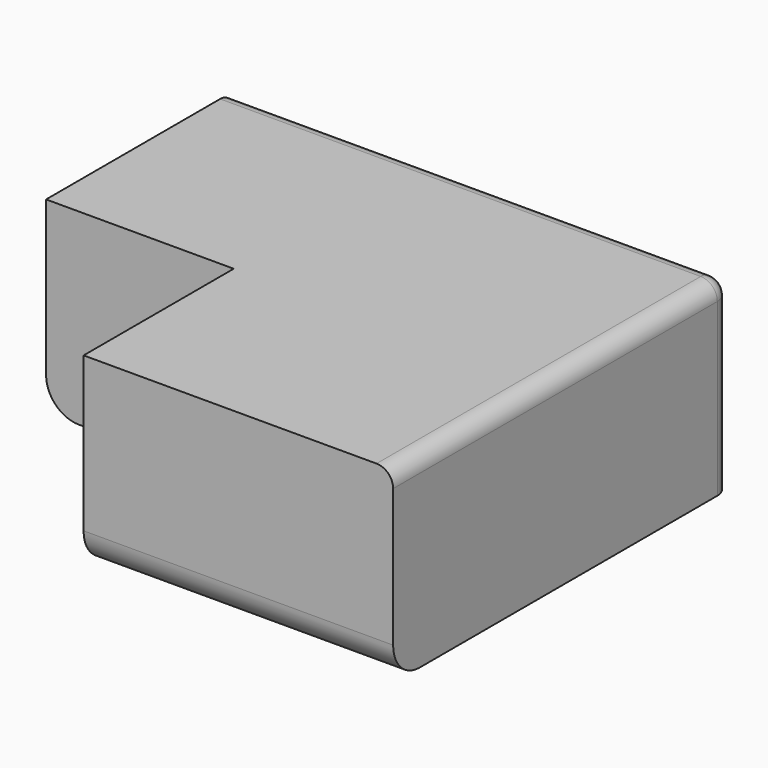
from build123d import *

# Parameters (mm, degrees)
F0_W     = 29.94
F0_H     = 25.4
F1_DEPTH = 11.3
F2_W     = 11.3
F2_H     = 11.3
F3_DEPTH = 25
F4_R     = 2
F5_R     = 1


with BuildPart() as f1:
    # F0 (on Top) → F1 (new body)
    with BuildSketch(Plane.XY):
        with Locations((14.97, 12.7)):
            Rectangle(F0_W, F0_H)
    extrude(amount=F1_DEPTH)

    # F2 (on face) → F3 (cut)
    with BuildSketch(Plane.XY.offset(11.3)):
        with Locations((5.65, 5.65)):
            Rectangle(F2_W, F2_H)
    extrude(amount=-F3_DEPTH, mode=Mode.SUBTRACT)

    # F4
    f4_edges = [f1.edges().sort_by_distance(p)[0] for p in [
        (20.62, 0, 0),
        (0, 18.35, 0),
    ]]
    fillet(f4_edges, radius=F4_R)

    # F5
    f5_edges = [f1.edges().sort_by_distance(p)[0] for p in [
        (29.94, 25.4, 5.65),
        (14.97, 25.4, 11.3),
        (29.94, 12.7, 11.3),
    ]]
    fillet(f5_edges, radius=F5_R)


solid = f1.part
